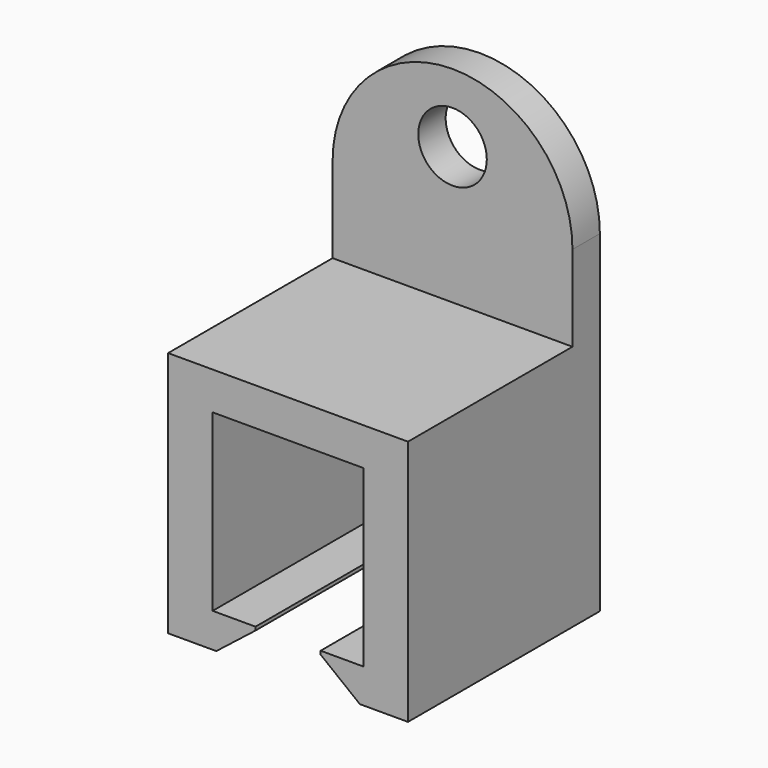
from build123d import *

# Parameters (mm, degrees)
F1_DEPTH = 7
F0_R     = 1
F2_DEPTH = 1


with BuildPart() as f1:
    # F0 (on Front) → F1 (new body)
    with BuildSketch(Plane.XZ):
        Polygon((-0.95, -6.2), (-2.2, -6.2), (-2.2, -1.1), (2.2, -1.1), (2.2, -6.2), (0.95, -6.2), (0.95, -6.3), (2.094895, -7.2), (3.5, -7.2), (3.5, 0), (-3.5, 0), (-3.5, -7.2), (-2.094895, -7.2), (-0.95, -6.3), align=None)
    extrude(amount=F1_DEPTH)

    # F0 (on Front) → F2 (join)
    with BuildSketch(Plane.XZ):
        with BuildLine():
            Line((-3.5, 2.5), (-3.5, 0))
            Line((-3.5, 0), (3.5, 0))
            Line((3.5, 0), (3.5, 2.5))
            ThreePointArc((3.5, 2.5), (0, 6), (-3.5, 2.5))
        make_face()
        with Locations((0, 4)):
            Circle(F0_R, mode=Mode.SUBTRACT)
    extrude(amount=F2_DEPTH)


solid = f1.part
